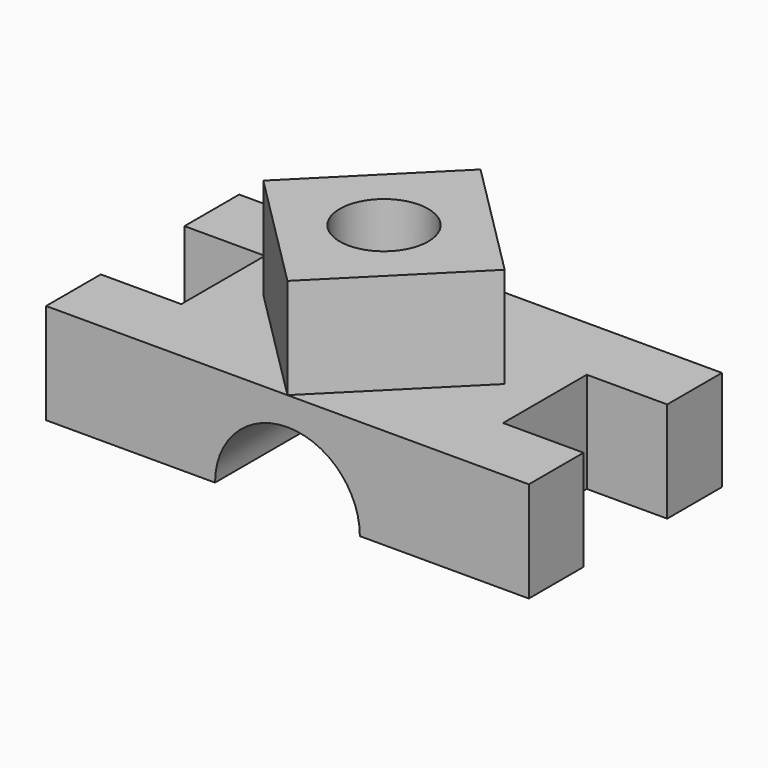
from build123d import *

# Parameters (mm, degrees)
F1_DEPTH = 25
F2_R     = 11
F3_DEPTH = 25
F4_DEPTH = 50
F6_DEPTH = 60


with BuildPart() as f1:
    # F0 (on Top) → F1 (new body)
    with BuildSketch(Plane.XY):
        Polygon((-86.922063902, 73.6389313266), (-146.922063902, 73.6389313266), (-146.922063902, 56.6389313266), (-126.922063902, 56.6389313266), (-126.922063902, 43.6389313266), (-86.922063902, 43.6389313266), align=None)
        Polygon((-26.922063902, 73.6389313266), (-86.922063902, 73.6389313266), (-86.922063902, 43.6389313266), (-46.922063902, 43.6389313266), (-46.922063902, 56.6389313266), (-26.922063902, 56.6389313266), align=None)
        Polygon((-46.922063902, 43.6389313266), (-86.922063902, 43.6389313266), (-126.922063902, 43.6389313266), (-126.922063902, 30.6389313266), (-146.922063902, 30.6389313266), (-146.922063902, 13.6389313266), (-26.922063902, 13.6389313266), (-26.922063902, 30.6389313266), (-46.922063902, 30.6389313266), align=None)
    extrude(amount=F1_DEPTH)

    # F2 (on face) → F3 (join)
    with BuildSketch(Plane.XY.offset(25)):
        Polygon((-86.922063902, 13.6389313266), (-56.922063902, 43.6389313266), (-86.922063902, 73.6389313266), (-116.922063902, 43.6389313266), align=None)
        with Locations((-86.922063902, 43.6389313266)):
            Circle(F2_R, mode=Mode.SUBTRACT)
    extrude(amount=F3_DEPTH)

    # F4 (cut): a face of the model
    f4_faces = [f1.faces().sort_by_distance(p)[0] for p in [
        (-86.922063902, 43.6389313266, 25),
    ]]
    extrude(f4_faces, amount=-F4_DEPTH, mode=Mode.SUBTRACT)

    # F5 (on face) → F6 (cut)
    with BuildSketch(Plane.XZ.offset(-13.6389313266)):
        with BuildLine():
            Line((-86.922063902, 0), (-68.922063902, 0))
            ThreePointArc((-68.922063902, 0), (-86.922063902, 18), (-104.922063902, 0))
            Line((-104.922063902, 0), (-86.922063902, 0))
        make_face()
    extrude(amount=-F6_DEPTH, mode=Mode.SUBTRACT)


solid = f1.part
